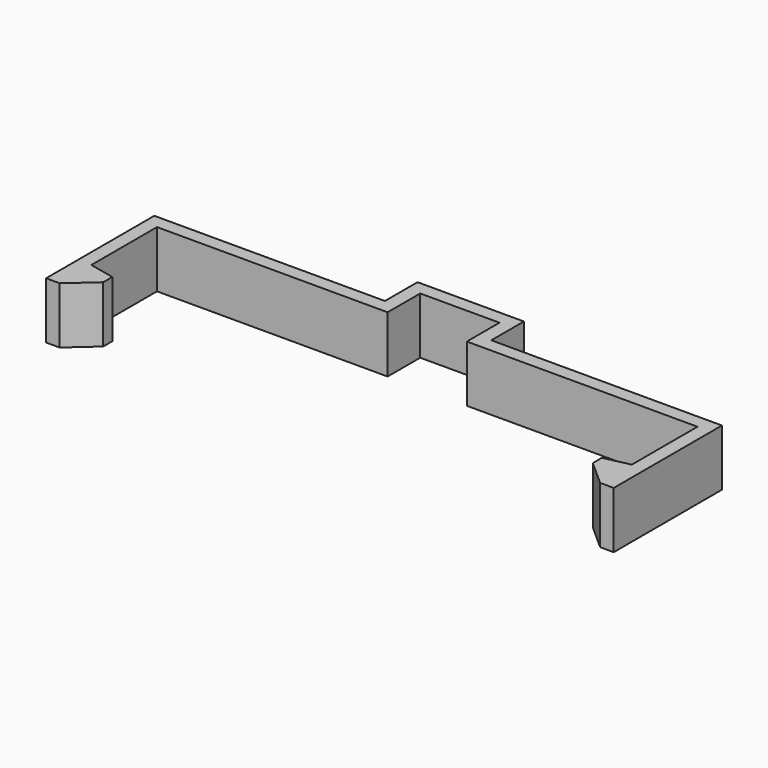
from build123d import *

# Parameters (mm, degrees)
F2_DEPTH = 10


with BuildPart() as f2:
    # F1 (on Top) → F2 (new body)
    with BuildSketch(Plane.XY):
        Polygon((-7, 7.2), (0, 7.2), (0, 9.6), (-9.4, 9.6), (-9.4, 2.4), (-50.15, 2.4), (-50.15, -21.5), (-47.75, -21.5), (-43.25, -17.5), (-43.25, -15.5), (-47.75, -14.5), (-47.75, 0), (-7, 0), align=None)
    extrude(amount=F2_DEPTH)

    # F3: F2 across plane


with BuildPart() as f2_1:
    add(f2.part)
    add(f2.part.mirror(Plane.YZ))


solid = f2_1.part
